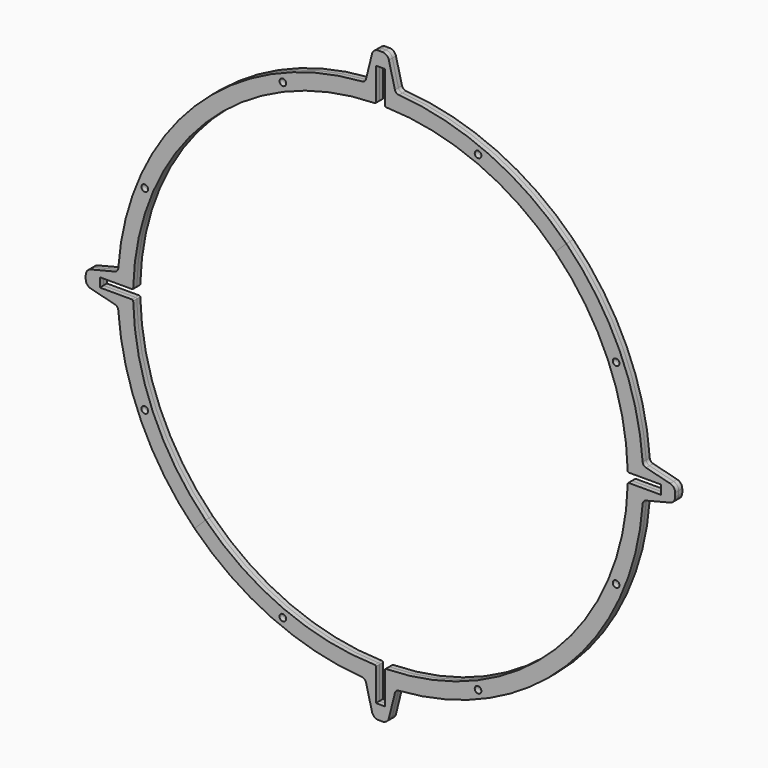
from build123d import *

# Parameters (mm, degrees)
F0_R     = 1.5
F1_DEPTH = 2
F2_DEPTH = 2
F3_DEPTH = 2
F4_DEPTH = 2


with BuildPart() as f1:
    # F0 (on Front) → F1 (new body)
    with BuildSketch(Plane.XZ):
        with BuildLine():
            ThreePointArc((-111.471353, 2.527333), (-102.522336, 43.834013), (-78.842406, 78.842406))
            Line((-78.842406, 78.842406), (-83.792154, 83.792154))
            ThreePointArc((-83.792154, 83.792154), (-107.819814, 49.164394), (-118.207765, 8.31711))
            ThreePointArc((-118.207765, 8.31711), (-118.670449, 7.172259), (-119.717262, 6.517323))
            Line((-119.717262, 6.517323), (-130.594559, 3.795025))
            ThreePointArc((-130.594559, 3.795025), (-132.231058, 2.730717), (-132.866204, 0.884785))
            Line((-132.866204, 0.884785), (-132.866204, -0.884785))
            ThreePointArc((-132.866204, -0.884785), (-132.231058, -2.730717), (-130.594559, -3.795025))
            Line((-130.594559, -3.795025), (-119.717262, -6.517323))
            ThreePointArc((-119.717262, -6.517323), (-118.670449, -7.172259), (-118.207765, -8.31711))
            ThreePointArc((-118.207765, -8.31711), (-107.819814, -49.164394), (-83.792154, -83.792154))
            Line((-83.792154, -83.792154), (-78.842406, -78.842406))
            ThreePointArc((-78.842406, -78.842406), (-102.522336, -43.834013), (-111.471353, -2.527333))
            Line((-111.471353, -2.527333), (-111.47188, -2.51888))
            ThreePointArc((-111.47188, -2.51888), (-111.628537, -2.18561), (-111.970911, -2.05))
            Line((-111.970911, -2.05), (-126.5, -2.05))
            Line((-126.5, -2.05), (-126.5, 0))
            Line((-126.5, 0), (-126.5, 2.05))
            Line((-126.5, 2.05), (-111.970911, 2.05))
            ThreePointArc((-111.970911, 2.05), (-111.628537, 2.18561), (-111.47188, 2.51888))
            Line((-111.47188, 2.51888), (-111.471353, 2.527333))
        make_face()
        with Locations((-106.246146, -44.008595)):
            Circle(F0_R, mode=Mode.SUBTRACT)
        with Locations((-106.246146, 44.008595)):
            Circle(F0_R, mode=Mode.SUBTRACT)
        with BuildLine():
            ThreePointArc((-78.842406, 78.842406), (-43.834013, 102.522336), (-2.527333, 111.471353))
            Line((-2.527333, 111.471353), (-2.51888, 111.47188))
            ThreePointArc((-2.51888, 111.47188), (-2.18561, 111.628537), (-2.05, 111.970911))
            Line((-2.05, 111.970911), (-2.05, 126.5))
            Line((-2.05, 126.5), (0, 126.5))
            Line((0, 126.5), (2.05, 126.5))
            Line((2.05, 126.5), (2.05, 111.970911))
            ThreePointArc((2.05, 111.970911), (2.18561, 111.628537), (2.51888, 111.47188))
            Line((2.51888, 111.47188), (2.527333, 111.471353))
            ThreePointArc((2.527333, 111.471353), (43.834013, 102.522336), (78.842406, 78.842406))
            Line((78.842406, 78.842406), (83.792154, 83.792154))
            ThreePointArc((83.792154, 83.792154), (49.164394, 107.819814), (8.31711, 118.207765))
            ThreePointArc((8.31711, 118.207765), (7.172259, 118.670449), (6.517323, 119.717262))
            Line((6.517323, 119.717262), (3.795025, 130.594559))
            ThreePointArc((3.795025, 130.594559), (2.730717, 132.231058), (0.884785, 132.866204))
            Line((0.884785, 132.866204), (-0.884785, 132.866204))
            ThreePointArc((-0.884785, 132.866204), (-2.730717, 132.231058), (-3.795025, 130.594559))
            Line((-3.795025, 130.594559), (-6.517323, 119.717262))
            ThreePointArc((-6.517323, 119.717262), (-7.172259, 118.670449), (-8.31711, 118.207765))
            ThreePointArc((-8.31711, 118.207765), (-49.164394, 107.819814), (-83.792154, 83.792154))
            Line((-83.792154, 83.792154), (-78.842406, 78.842406))
        make_face()
        with Locations((-44.008595, 106.246146)):
            Circle(F0_R, mode=Mode.SUBTRACT)
        with Locations((44.008595, 106.246146)):
            Circle(F0_R, mode=Mode.SUBTRACT)
    extrude(amount=F1_DEPTH)


with BuildPart() as f2:
    # F0 (on Front) → F2 (new body)
    with BuildSketch(Plane.XZ):
        with BuildLine():
            Line((83.792154, 83.792154), (78.842406, 78.842406))
            ThreePointArc((78.842406, 78.842406), (102.522336, 43.834013), (111.471353, 2.527333))
            Line((111.471353, 2.527333), (111.47188, 2.51888))
            ThreePointArc((111.47188, 2.51888), (111.628537, 2.18561), (111.970911, 2.05))
            Line((111.970911, 2.05), (126.5, 2.05))
            Line((126.5, 2.05), (126.5, 0))
            Line((126.5, 0), (126.5, -2.05))
            Line((126.5, -2.05), (111.970911, -2.05))
            ThreePointArc((111.970911, -2.05), (111.628537, -2.18561), (111.47188, -2.51888))
            Line((111.47188, -2.51888), (111.471353, -2.527333))
            ThreePointArc((111.471353, -2.527333), (102.522336, -43.834013), (78.842406, -78.842406))
            Line((78.842406, -78.842406), (83.792154, -83.792154))
            ThreePointArc((83.792154, -83.792154), (107.819814, -49.164394), (118.207765, -8.31711))
            ThreePointArc((118.207765, -8.31711), (118.670449, -7.172259), (119.717262, -6.517323))
            Line((119.717262, -6.517323), (130.594559, -3.795025))
            ThreePointArc((130.594559, -3.795025), (132.231058, -2.730717), (132.866204, -0.884785))
            Line((132.866204, -0.884785), (132.866204, 0.884785))
            ThreePointArc((132.866204, 0.884785), (132.231058, 2.730717), (130.594559, 3.795025))
            Line((130.594559, 3.795025), (119.717262, 6.517323))
            ThreePointArc((119.717262, 6.517323), (118.670449, 7.172259), (118.207765, 8.31711))
            ThreePointArc((118.207765, 8.31711), (107.819814, 49.164394), (83.792154, 83.792154))
        make_face()
        with Locations((106.246146, -44.008595)):
            Circle(F0_R, mode=Mode.SUBTRACT)
        with Locations((106.246146, 44.008595)):
            Circle(F0_R, mode=Mode.SUBTRACT)
        with BuildLine():
            Line((-78.842406, -78.842406), (-83.792154, -83.792154))
            ThreePointArc((-83.792154, -83.792154), (-49.164394, -107.819814), (-8.31711, -118.207765))
            ThreePointArc((-8.31711, -118.207765), (-7.172259, -118.670449), (-6.517323, -119.717262))
            Line((-6.517323, -119.717262), (-3.795025, -130.594559))
            ThreePointArc((-3.795025, -130.594559), (-2.730717, -132.231058), (-0.884785, -132.866204))
            Line((-0.884785, -132.866204), (0.884785, -132.866204))
            ThreePointArc((0.884785, -132.866204), (2.730717, -132.231058), (3.795025, -130.594559))
            Line((3.795025, -130.594559), (6.517323, -119.717262))
            ThreePointArc((6.517323, -119.717262), (7.172259, -118.670449), (8.31711, -118.207765))
            ThreePointArc((8.31711, -118.207765), (49.164394, -107.819814), (83.792154, -83.792154))
            Line((83.792154, -83.792154), (78.842406, -78.842406))
            ThreePointArc((78.842406, -78.842406), (43.834013, -102.522336), (2.527333, -111.471353))
            Line((2.527333, -111.471353), (2.51888, -111.47188))
            ThreePointArc((2.51888, -111.47188), (2.18561, -111.628537), (2.05, -111.970911))
            Line((2.05, -111.970911), (2.05, -126.5))
            Line((2.05, -126.5), (0, -126.5))
            Line((0, -126.5), (-2.05, -126.5))
            Line((-2.05, -126.5), (-2.05, -111.970911))
            ThreePointArc((-2.05, -111.970911), (-2.18561, -111.628537), (-2.51888, -111.47188))
            Line((-2.51888, -111.47188), (-2.527333, -111.471353))
            ThreePointArc((-2.527333, -111.471353), (-43.834013, -102.522336), (-78.842406, -78.842406))
        make_face()
        with Locations((-44.008595, -106.246146)):
            Circle(F0_R, mode=Mode.SUBTRACT)
        with Locations((44.008595, -106.246146)):
            Circle(F0_R, mode=Mode.SUBTRACT)
    extrude(amount=F2_DEPTH)


with BuildPart() as f3:
    # F0 (on Front) → F3 (new body)
    with BuildSketch(Plane.XZ):
        with BuildLine():
            ThreePointArc((-78.842406, 78.842406), (-43.834013, 102.522336), (-2.527333, 111.471353))
            Line((-2.527333, 111.471353), (-2.51888, 111.47188))
            ThreePointArc((-2.51888, 111.47188), (-2.18561, 111.628537), (-2.05, 111.970911))
            Line((-2.05, 111.970911), (-2.05, 126.5))
            Line((-2.05, 126.5), (0, 126.5))
            Line((0, 126.5), (2.05, 126.5))
            Line((2.05, 126.5), (2.05, 111.970911))
            ThreePointArc((2.05, 111.970911), (2.18561, 111.628537), (2.51888, 111.47188))
            Line((2.51888, 111.47188), (2.527333, 111.471353))
            ThreePointArc((2.527333, 111.471353), (43.834013, 102.522336), (78.842406, 78.842406))
            Line((78.842406, 78.842406), (83.792154, 83.792154))
            ThreePointArc((83.792154, 83.792154), (49.164394, 107.819814), (8.31711, 118.207765))
            ThreePointArc((8.31711, 118.207765), (7.172259, 118.670449), (6.517323, 119.717262))
            Line((6.517323, 119.717262), (3.795025, 130.594559))
            ThreePointArc((3.795025, 130.594559), (2.730717, 132.231058), (0.884785, 132.866204))
            Line((0.884785, 132.866204), (-0.884785, 132.866204))
            ThreePointArc((-0.884785, 132.866204), (-2.730717, 132.231058), (-3.795025, 130.594559))
            Line((-3.795025, 130.594559), (-6.517323, 119.717262))
            ThreePointArc((-6.517323, 119.717262), (-7.172259, 118.670449), (-8.31711, 118.207765))
            ThreePointArc((-8.31711, 118.207765), (-49.164394, 107.819814), (-83.792154, 83.792154))
            Line((-83.792154, 83.792154), (-78.842406, 78.842406))
        make_face()
        with Locations((-44.008595, 106.246146)):
            Circle(F0_R, mode=Mode.SUBTRACT)
        with Locations((44.008595, 106.246146)):
            Circle(F0_R, mode=Mode.SUBTRACT)
        with BuildLine():
            Line((83.792154, 83.792154), (78.842406, 78.842406))
            ThreePointArc((78.842406, 78.842406), (102.522336, 43.834013), (111.471353, 2.527333))
            Line((111.471353, 2.527333), (111.47188, 2.51888))
            ThreePointArc((111.47188, 2.51888), (111.628537, 2.18561), (111.970911, 2.05))
            Line((111.970911, 2.05), (126.5, 2.05))
            Line((126.5, 2.05), (126.5, 0))
            Line((126.5, 0), (126.5, -2.05))
            Line((126.5, -2.05), (111.970911, -2.05))
            ThreePointArc((111.970911, -2.05), (111.628537, -2.18561), (111.47188, -2.51888))
            Line((111.47188, -2.51888), (111.471353, -2.527333))
            ThreePointArc((111.471353, -2.527333), (102.522336, -43.834013), (78.842406, -78.842406))
            Line((78.842406, -78.842406), (83.792154, -83.792154))
            ThreePointArc((83.792154, -83.792154), (107.819814, -49.164394), (118.207765, -8.31711))
            ThreePointArc((118.207765, -8.31711), (118.670449, -7.172259), (119.717262, -6.517323))
            Line((119.717262, -6.517323), (130.594559, -3.795025))
            ThreePointArc((130.594559, -3.795025), (132.231058, -2.730717), (132.866204, -0.884785))
            Line((132.866204, -0.884785), (132.866204, 0.884785))
            ThreePointArc((132.866204, 0.884785), (132.231058, 2.730717), (130.594559, 3.795025))
            Line((130.594559, 3.795025), (119.717262, 6.517323))
            ThreePointArc((119.717262, 6.517323), (118.670449, 7.172259), (118.207765, 8.31711))
            ThreePointArc((118.207765, 8.31711), (107.819814, 49.164394), (83.792154, 83.792154))
        make_face()
        with Locations((106.246146, -44.008595)):
            Circle(F0_R, mode=Mode.SUBTRACT)
        with Locations((106.246146, 44.008595)):
            Circle(F0_R, mode=Mode.SUBTRACT)
    extrude(amount=-F3_DEPTH)


with BuildPart() as f4:
    # F0 (on Front) → F4 (new body)
    with BuildSketch(Plane.XZ):
        with BuildLine():
            ThreePointArc((-111.471353, 2.527333), (-102.522336, 43.834013), (-78.842406, 78.842406))
            Line((-78.842406, 78.842406), (-83.792154, 83.792154))
            ThreePointArc((-83.792154, 83.792154), (-107.819814, 49.164394), (-118.207765, 8.31711))
            ThreePointArc((-118.207765, 8.31711), (-118.670449, 7.172259), (-119.717262, 6.517323))
            Line((-119.717262, 6.517323), (-130.594559, 3.795025))
            ThreePointArc((-130.594559, 3.795025), (-132.231058, 2.730717), (-132.866204, 0.884785))
            Line((-132.866204, 0.884785), (-132.866204, -0.884785))
            ThreePointArc((-132.866204, -0.884785), (-132.231058, -2.730717), (-130.594559, -3.795025))
            Line((-130.594559, -3.795025), (-119.717262, -6.517323))
            ThreePointArc((-119.717262, -6.517323), (-118.670449, -7.172259), (-118.207765, -8.31711))
            ThreePointArc((-118.207765, -8.31711), (-107.819814, -49.164394), (-83.792154, -83.792154))
            Line((-83.792154, -83.792154), (-78.842406, -78.842406))
            ThreePointArc((-78.842406, -78.842406), (-102.522336, -43.834013), (-111.471353, -2.527333))
            Line((-111.471353, -2.527333), (-111.47188, -2.51888))
            ThreePointArc((-111.47188, -2.51888), (-111.628537, -2.18561), (-111.970911, -2.05))
            Line((-111.970911, -2.05), (-126.5, -2.05))
            Line((-126.5, -2.05), (-126.5, 0))
            Line((-126.5, 0), (-126.5, 2.05))
            Line((-126.5, 2.05), (-111.970911, 2.05))
            ThreePointArc((-111.970911, 2.05), (-111.628537, 2.18561), (-111.47188, 2.51888))
            Line((-111.47188, 2.51888), (-111.471353, 2.527333))
        make_face()
        with Locations((-106.246146, -44.008595)):
            Circle(F0_R, mode=Mode.SUBTRACT)
        with Locations((-106.246146, 44.008595)):
            Circle(F0_R, mode=Mode.SUBTRACT)
        with BuildLine():
            Line((-78.842406, -78.842406), (-83.792154, -83.792154))
            ThreePointArc((-83.792154, -83.792154), (-49.164394, -107.819814), (-8.31711, -118.207765))
            ThreePointArc((-8.31711, -118.207765), (-7.172259, -118.670449), (-6.517323, -119.717262))
            Line((-6.517323, -119.717262), (-3.795025, -130.594559))
            ThreePointArc((-3.795025, -130.594559), (-2.730717, -132.231058), (-0.884785, -132.866204))
            Line((-0.884785, -132.866204), (0.884785, -132.866204))
            ThreePointArc((0.884785, -132.866204), (2.730717, -132.231058), (3.795025, -130.594559))
            Line((3.795025, -130.594559), (6.517323, -119.717262))
            ThreePointArc((6.517323, -119.717262), (7.172259, -118.670449), (8.31711, -118.207765))
            ThreePointArc((8.31711, -118.207765), (49.164394, -107.819814), (83.792154, -83.792154))
            Line((83.792154, -83.792154), (78.842406, -78.842406))
            ThreePointArc((78.842406, -78.842406), (43.834013, -102.522336), (2.527333, -111.471353))
            Line((2.527333, -111.471353), (2.51888, -111.47188))
            ThreePointArc((2.51888, -111.47188), (2.18561, -111.628537), (2.05, -111.970911))
            Line((2.05, -111.970911), (2.05, -126.5))
            Line((2.05, -126.5), (0, -126.5))
            Line((0, -126.5), (-2.05, -126.5))
            Line((-2.05, -126.5), (-2.05, -111.970911))
            ThreePointArc((-2.05, -111.970911), (-2.18561, -111.628537), (-2.51888, -111.47188))
            Line((-2.51888, -111.47188), (-2.527333, -111.471353))
            ThreePointArc((-2.527333, -111.471353), (-43.834013, -102.522336), (-78.842406, -78.842406))
        make_face()
        with Locations((-44.008595, -106.246146)):
            Circle(F0_R, mode=Mode.SUBTRACT)
        with Locations((44.008595, -106.246146)):
            Circle(F0_R, mode=Mode.SUBTRACT)
    extrude(amount=-F4_DEPTH)


solid = Compound([f1.part, f2.part, f3.part, f4.part])
